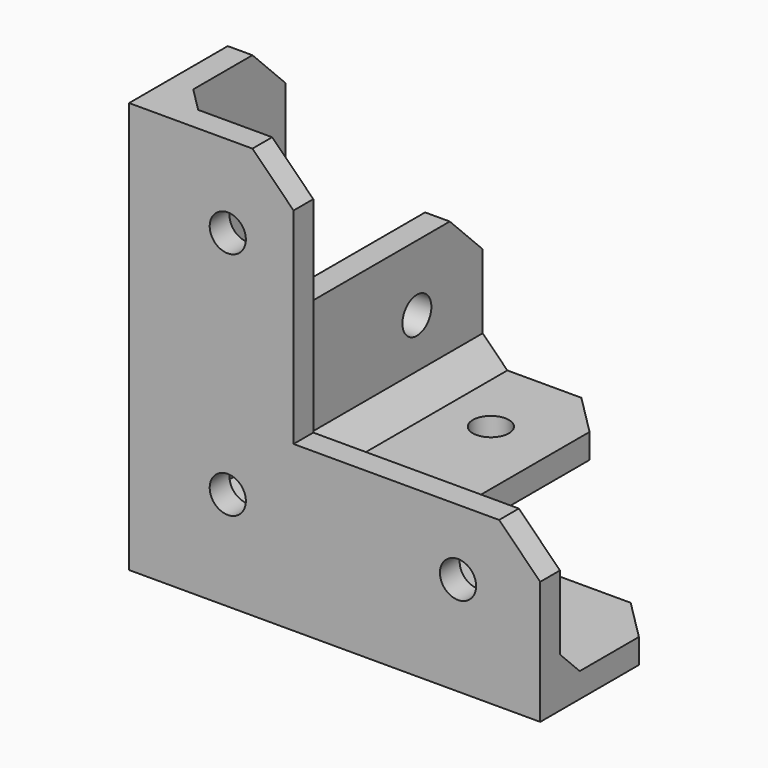
from build123d import *

# Parameters (mm, degrees)
F1_DEPTH       = 3
F3_DEPTH       = 3
F5_DEPTH       = 3
F6_D           = 4.4
F6_DEPTH       = 80
F6_TIP         = 1.3218933619
F7_D           = 4.4
F7_DEPTH       = 80
F7_TIP         = 1.3218933619
F7_ON_F4_D     = 4.4
F7_ON_F4_DEPTH = 80
F7_ON_F4_TIP   = 1.3218933619
F9_SIZE        = 3
F10_SIZE       = 5


with BuildPart() as f1:
    # F0 (on Front) → F1 (new body)
    with BuildSketch(Plane.XZ):
        Polygon((-83.1050851941, 50), (-103.1050851941, 50), (-103.1050851941, 0), (-53.1050851941, 0), (-53.1050851941, 20), (-83.1050851941, 20), align=None)
    extrude(amount=F1_DEPTH)

    # F2 (on face) → F3 (join)
    with BuildSketch(Plane(origin=(-103.1050851941, 0, 0), x_dir=(0, -1, 0), z_dir=(-1, 0, 0))):
        Polygon((0, 0), (0, 50), (-17, 50), (-17, 20), (-47, 20), (-47, 0), align=None)
    extrude(amount=-F3_DEPTH)

    # F4 (on face) → F5 (join)
    with BuildSketch(Plane(origin=(0, 0, 0), x_dir=(1, 0, 0), z_dir=(0, 0, -1))):
        Polygon((-53.1050851941, -17), (-53.1050851941, 3), (-103.1050851941, 3), (-103.1050851941, -47), (-83.1050851941, -47), (-83.1050851941, -17), align=None)
    extrude(amount=-F5_DEPTH)

    # F6
    with Locations(Plane(origin=(0, 0, 0), x_dir=(1, 0, 0), z_dir=(0, 1, 0))):
        with Locations((-63.1050851941, -12), (-91.1050851941, -40), (-91.1050851941, -12)):
            Hole(F6_D / 2, depth=F6_DEPTH)
            with Locations((0, 0, -(F6_DEPTH + F6_TIP / 2))):  # 118° drill point
                Cone(0, F6_D / 2, F6_TIP, mode=Mode.SUBTRACT)

    # F7
    with Locations(Plane(origin=(-103.1050851941, 0, 0), x_dir=(0, -1, 0), z_dir=(-1, 0, 0))):
        with Locations((-9, 40.2020410289), (-37, 12), (-9, 12)):
            Hole(F7_D / 2, depth=F7_DEPTH)
            with Locations((0, 0, -(F7_DEPTH + F7_TIP / 2))):  # 118° drill point
                Cone(0, F7_D / 2, F7_TIP, mode=Mode.SUBTRACT)

    # F7 on F4
    with Locations(Plane(origin=(0, 0, 0), x_dir=(1, 0, 0), z_dir=(0, 0, -1))):
        with Locations((-91.1050851941, -9), (-91.1050851941, -37), (-63.1050851941, -9)):
            Hole(F7_ON_F4_D / 2, depth=F7_ON_F4_DEPTH)
            with Locations((0, 0, -(F7_ON_F4_DEPTH + F7_ON_F4_TIP / 2))):  # 118° drill point
                Cone(0, F7_ON_F4_D / 2, F7_ON_F4_TIP, mode=Mode.SUBTRACT)

    # F9
    f9_edges = [f1.edges().sort_by_distance(p)[0] for p in [
        (-76.605085, 0, 3),
        (-100.105085, 23.5, 3),
        (-100.105085, 0, 26.5),
    ]]
    chamfer(f9_edges, length=F9_SIZE)

    # F10
    f10_edges = [f1.edges().sort_by_distance(p)[0] for p in [
        (-53.105085, -1.5, 20),
        (-53.105085, 17, 1.5),
        (-83.105085, 47, 1.5),
        (-101.605085, 47, 20),
        (-83.105085, -1.5, 50),
        (-101.605085, 17, 50),
    ]]
    chamfer(f10_edges, length=F10_SIZE)


solid = f1.part
